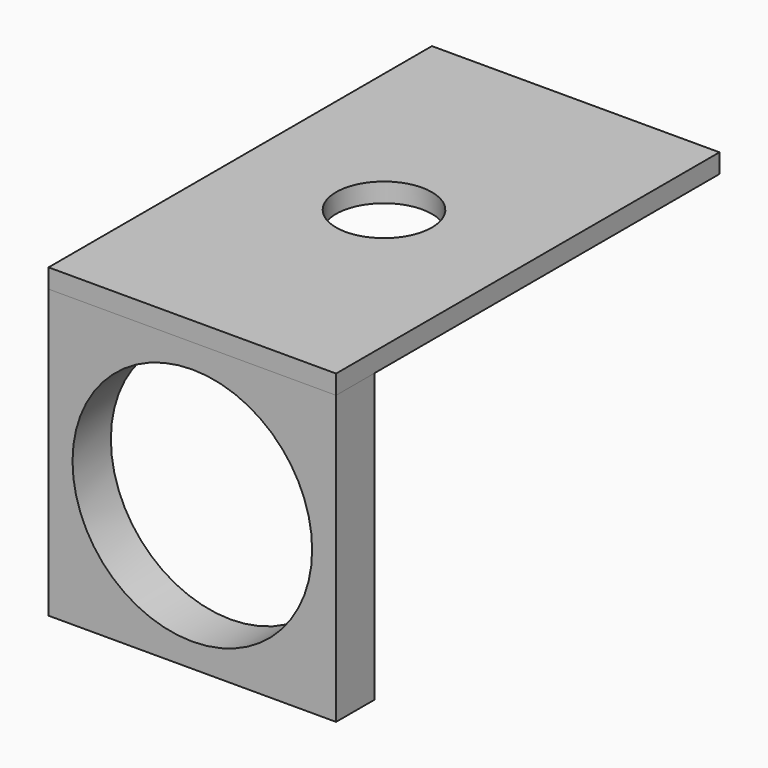
from build123d import *

# Parameters (mm, degrees)
F0_W     = 30
F0_H     = 2
F1_DEPTH = 25
F2_R     = 5
F3_DEPTH = 2.001
F4_W     = 30
F4_H     = 5
F5_DEPTH = 30
F6_R     = 12.5
F7_DEPTH = 50.001


with BuildPart() as f1:
    # F0 (on Front) → F1 (new body, symmetric)
    with BuildSketch(Plane.XZ):
        with Locations((0, 1)):
            Rectangle(F0_W, F0_H)
    extrude(amount=F1_DEPTH, both=True)

    # F2 (on face) → F3 (cut, through all)
    with BuildSketch(Plane.XY.offset(2)):
        Circle(F2_R)
    extrude(amount=-F3_DEPTH, mode=Mode.SUBTRACT)


with BuildPart() as f5:
    # F4 (on face) → F5 (new body)
    with BuildSketch(Plane(origin=(0, 0, 0), x_dir=(1, 0, 0), z_dir=(0, 0, -1))):
        with Locations((0, 22.5)):
            Rectangle(F4_W, F4_H)
    extrude(amount=F5_DEPTH)

    # F6 (on face) → F7 (cut, through all)
    with BuildSketch(Plane.XZ.offset(25)):
        with Locations((0, -15)):
            Circle(F6_R)
    extrude(amount=-F7_DEPTH, mode=Mode.SUBTRACT)


solid = Compound([f1.part, f5.part])
